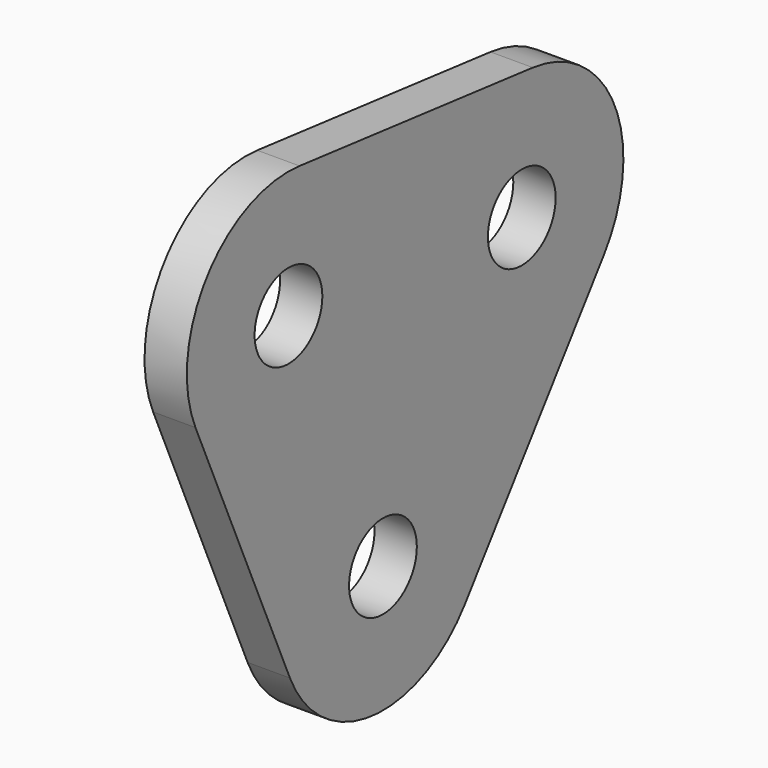
from build123d import *

# Parameters (mm, degrees)
F0_R     = 5
F1_DEPTH = 5


with BuildPart() as f1:
    # F0 (on Right) → F1 (new body)
    with BuildSketch(Plane.YZ):
        with BuildLine():
            Line((9.910703, -28.752543), (30.401655, -0.818593))
            ThreePointArc((30.401655, -0.818593), (32.037225, 14.093123), (19.940303, 22.964359))
            Line((19.940303, 22.964359), (-14.495562, 26.736794))
            ThreePointArc((-14.495562, 26.736794), (-28.224833, 20.69683), (-29.8597, 5.78706))
            Line((-29.8597, 5.78706), (-15.914788, -25.919323))
            ThreePointArc((-15.914788, -25.919323), (-3.819902, -34.790923), (9.910703, -28.752543))
        make_face()
        with Locations((-2.184121, -19.880383)):
            Circle(F0_R, mode=Mode.SUBTRACT)
        with Locations((-16.129034, 11.826)):
            Circle(F0_R, mode=Mode.SUBTRACT)
        with Locations((18.306831, 8.053566)):
            Circle(F0_R, mode=Mode.SUBTRACT)
    extrude(amount=F1_DEPTH)


solid = f1.part
